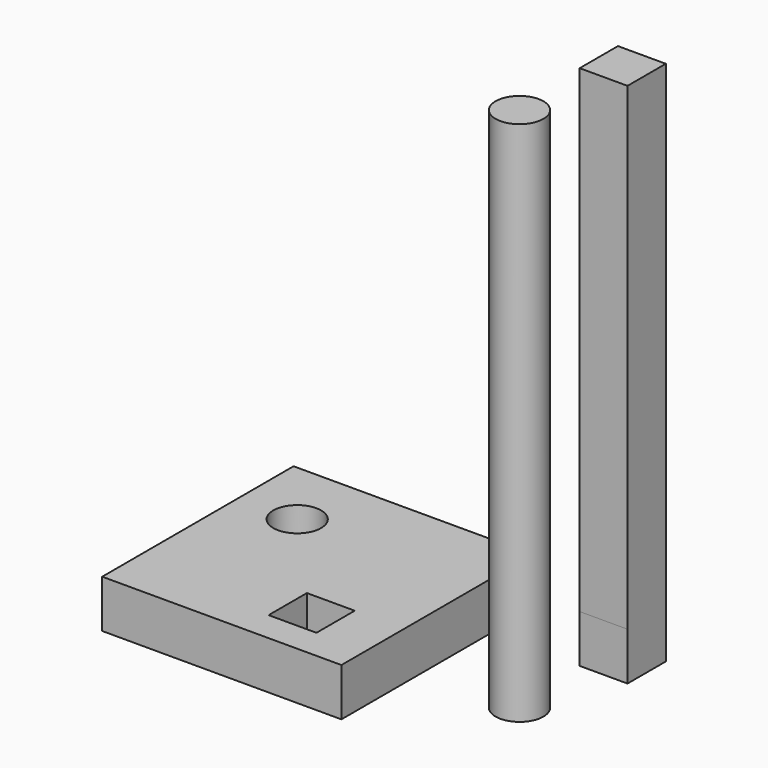
from build123d import *

# Parameters (mm, degrees)
F0_W      = 127
F0_H      = 127
F0_W_2    = 25.4
F0_H_2    = 25.4
F0_R      = 12.7
F1_DEPTH  = 25.4
F1_FACE_R = 12.7
F1_FACE_W = 25.4
F1_FACE_H = 25.4
F2_DEPTH  = 254


with BuildPart() as f1:
    # F0 (on Top) → F1 (new body)
    with BuildSketch(Plane.XY):
        Rectangle(F0_W, F0_H)
        with Locations((24.638057, -34.659183)):
            Rectangle(F0_W_2, F0_H_2, mode=Mode.SUBTRACT)
        with Locations((-32.60253, 27.276393)):
            Circle(F0_R, mode=Mode.SUBTRACT)
        with Locations((123.349623, 48.402992)):
            Rectangle(F0_W_2, F0_H_2)
        with Locations((114.66229, -9.238862)):
            Circle(F0_R)
    extrude(amount=F1_DEPTH)

    # F1_face (on face) → F2 (join)
    with BuildSketch(Plane(origin=(114.66229, -9.238862, 25.4), x_dir=(1, 0, 0), z_dir=(0, 0, 1))):
        Circle(F1_FACE_R)
        with Locations((8.687333, 57.641855)):
            Rectangle(F1_FACE_W, F1_FACE_H)
    extrude(amount=F2_DEPTH)


solid = f1.part
